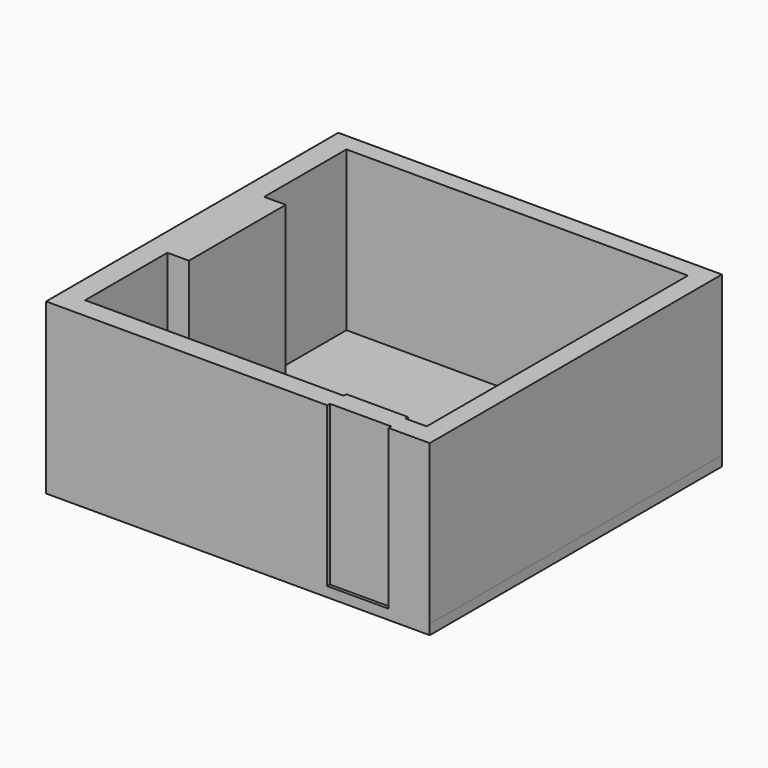
from build123d import *

# Parameters (mm, degrees)
F1_DEPTH = 2438.4
F2_W     = 5877.897263
F2_H     = 5595.7582
F3_DEPTH = 152.4


with BuildPart() as f1:
    # F0 (on Top) → F1 (new body)
    with BuildSketch(Plane.XY):
        Polygon((3411.946297, 2776.472807), (-2465.950966, 2776.472807), (-2465.950966, -2819.285393), (1841.801322, -2819.285393), (1841.801322, -2768.485393), (2781.601322, -2768.485393), (2781.601322, -2819.285393), (3411.946297, -2819.285393), align=None)
        Polygon((-2120.598678, 926.018782), (-2120.598678, 2500.818782), (3111.801322, 2500.818782), (3111.801322, -2502.981218), (2781.601322, -2502.981218), (2781.601322, -2452.181218), (1841.801322, -2452.181218), (1841.801322, -2502.981218), (-2120.598678, -2502.981218), (-2120.598678, -928.181218), (-1790.398678, -928.181218), (-1790.398678, 926.018782), align=None, mode=Mode.SUBTRACT)
    extrude(amount=F1_DEPTH)

    # F2 (on face) → F3 (join)
    with BuildSketch(Plane(origin=(0, 0, 0), x_dir=(1, 0, 0), z_dir=(0, 0, -1))):
        with Locations((472.997666, 21.406293)):
            Rectangle(F2_W, F2_H)
    extrude(amount=F3_DEPTH)


solid = f1.part
